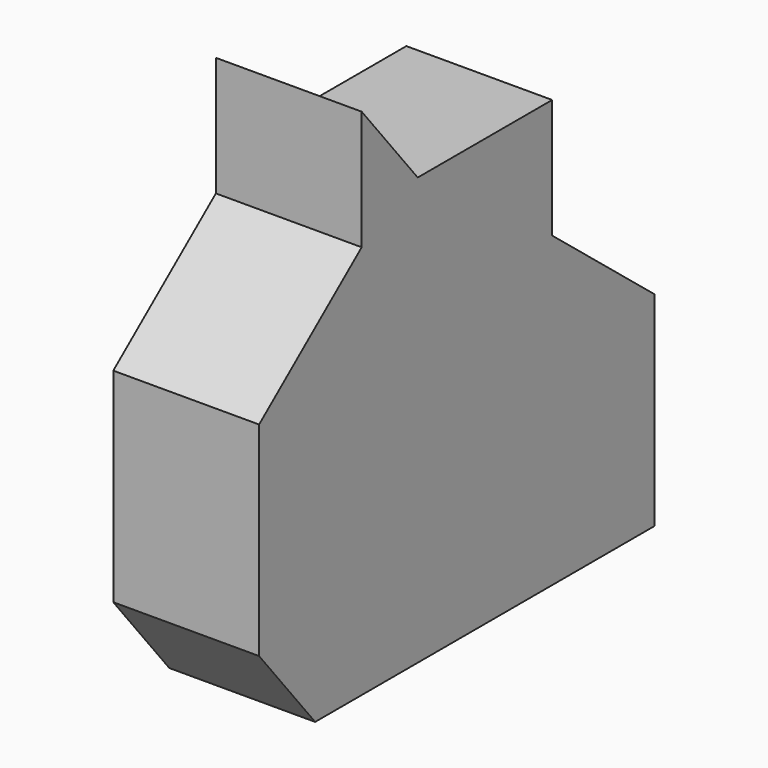
from build123d import *

# Parameters (mm, degrees)
F1_DEPTH = 33.274
F2_DEPTH = 25.4


with BuildPart() as f1:
    # F0 (on Right) → F1 (new body)
    with BuildSketch(Plane.YZ):
        Polygon((0, 50.9521476924), (-19.1701129079, 50.9521476924), (-19.1701129079, 23.7104035914), (-48.4297610819, 0), (-48.4297610819, -46.5127490461), (0, -46.5127490461), (48.4297610819, -46.5127490461), (48.4297610819, 0), (19.1701129079, 23.7104035914), (19.1701129079, 50.9521476924), align=None)
    extrude(amount=F1_DEPTH)

    # F2 (add): faces of the model
    f2_faces = [f1.faces().sort_by_distance(p)[0] for p in [
        (16.637, -33.7999369949, 11.8552017957),
        (16.637, -48.4297610819, -23.256374523),
        (16.637, -19.1701129079, 37.3312756419),
    ]]
    extrude(f2_faces, amount=F2_DEPTH, dir=(0, -0.6295834828, 0.7769328402))


solid = f1.part
